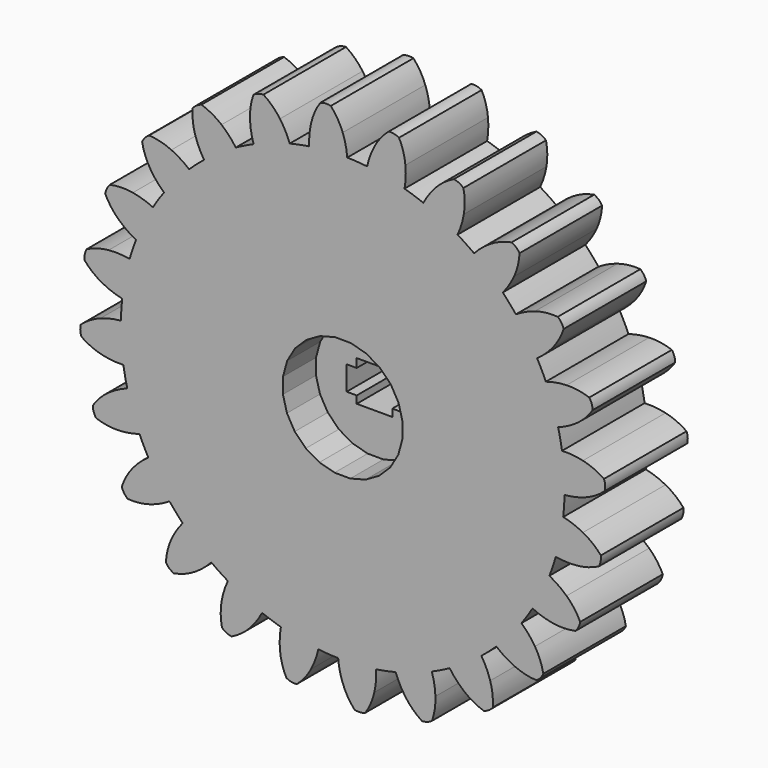
from build123d import *

# Parameters (mm, degrees)
F1_DEPTH = 25
F2_COUNT = 24
F3_DEPTH = 15


with BuildPart() as f1:
    # F0 (on Front) → F1 (new body)
    with BuildSketch(Plane.XZ):
        with BuildLine():
            ThreePointArc((-8.108463, 53.105543), (-35.002508, -40.752549), (53.721, 0))
            ThreePointArc((53.721, 0), (38.376022, 37.592909), (1.107429, 53.709584))
            ThreePointArc((1.107429, 53.709584), (-3.513522, 53.605979), (-8.108463, 53.105543))
        make_face()
        Polygon((-12.459035, -9.478628), (-15.51227, 2.107466), (-9.478628, 12.459035), (2.107466, 15.51227), (12.459035, 9.478628), (15.51227, -2.107466), (9.478628, -12.459035), (-2.107466, -15.51227), align=None, mode=Mode.SUBTRACT)
        with BuildLine():
            ThreePointArc((-8.108463, 53.105543), (-3.513522, 53.605979), (1.107429, 53.709584))
            ThreePointArc((1.107429, 53.709584), (0.722894, 56.229532), (0, 58.674))
            ThreePointArc((0, 58.674), (-1.213214, 61.189629), (-2.874224, 63.434918))
            ThreePointArc((-2.874224, 63.434918), (-4.165081, 63.546858), (-5.430284, 63.267385))
            ThreePointArc((-5.430284, 63.267385), (-6.784015, 60.824499), (-7.658494, 58.172036))
            ThreePointArc((-7.658494, 58.172036), (-8.056136, 55.654124), (-8.108463, 53.105543))
        make_face()
    extrude(amount=F1_DEPTH)



with BuildPart() as f2_1:
    # F2: instance of F1
    add(f1.part.rotate(Axis((0, 0, 0), (0, 1, 0)), 1 * 360 / F2_COUNT))


with BuildPart() as f2_2:
    # F2: instance of F1
    add(f1.part.rotate(Axis((0, 0, 0), (0, 1, 0)), 2 * 360 / F2_COUNT))


with BuildPart() as f2_3:
    # F2: instance of F1
    add(f1.part.rotate(Axis((0, 0, 0), (0, 1, 0)), 3 * 360 / F2_COUNT))


with BuildPart() as f2_4:
    # F2: instance of F1
    add(f1.part.rotate(Axis((0, 0, 0), (0, 1, 0)), 4 * 360 / F2_COUNT))


with BuildPart() as f2_5:
    # F2: instance of F1
    add(f1.part.rotate(Axis((0, 0, 0), (0, 1, 0)), 5 * 360 / F2_COUNT))


with BuildPart() as f2_6:
    # F2: instance of F1
    add(f1.part.rotate(Axis((0, 0, 0), (0, 1, 0)), 6 * 360 / F2_COUNT))


with BuildPart() as f2_7:
    # F2: instance of F1
    add(f1.part.rotate(Axis((0, 0, 0), (0, 1, 0)), 7 * 360 / F2_COUNT))


with BuildPart() as f2_8:
    # F2: instance of F1
    add(f1.part.rotate(Axis((0, 0, 0), (0, 1, 0)), 8 * 360 / F2_COUNT))


with BuildPart() as f2_9:
    # F2: instance of F1
    add(f1.part.rotate(Axis((0, 0, 0), (0, 1, 0)), 9 * 360 / F2_COUNT))


with BuildPart() as f2_10:
    # F2: instance of F1
    add(f1.part.rotate(Axis((0, 0, 0), (0, 1, 0)), 10 * 360 / F2_COUNT))


with BuildPart() as f2_11:
    # F2: instance of F1
    add(f1.part.rotate(Axis((0, 0, 0), (0, 1, 0)), 11 * 360 / F2_COUNT))


with BuildPart() as f2_12:
    # F2: instance of F1
    add(f1.part.rotate(Axis((0, 0, 0), (0, 1, 0)), 12 * 360 / F2_COUNT))


with BuildPart() as f2_13:
    # F2: instance of F1
    add(f1.part.rotate(Axis((0, 0, 0), (0, 1, 0)), 13 * 360 / F2_COUNT))


with BuildPart() as f2_14:
    # F2: instance of F1
    add(f1.part.rotate(Axis((0, 0, 0), (0, 1, 0)), 14 * 360 / F2_COUNT))


with BuildPart() as f2_15:
    # F2: instance of F1
    add(f1.part.rotate(Axis((0, 0, 0), (0, 1, 0)), 15 * 360 / F2_COUNT))


with BuildPart() as f2_16:
    # F2: instance of F1
    add(f1.part.rotate(Axis((0, 0, 0), (0, 1, 0)), 16 * 360 / F2_COUNT))


with BuildPart() as f2_17:
    # F2: instance of F1
    add(f1.part.rotate(Axis((0, 0, 0), (0, 1, 0)), 17 * 360 / F2_COUNT))


with BuildPart() as f2_18:
    # F2: instance of F1
    add(f1.part.rotate(Axis((0, 0, 0), (0, 1, 0)), 18 * 360 / F2_COUNT))


with BuildPart() as f2_19:
    # F2: instance of F1
    add(f1.part.rotate(Axis((0, 0, 0), (0, 1, 0)), 19 * 360 / F2_COUNT))


with BuildPart() as f2_20:
    # F2: instance of F1
    add(f1.part.rotate(Axis((0, 0, 0), (0, 1, 0)), 20 * 360 / F2_COUNT))


with BuildPart() as f2_21:
    # F2: instance of F1
    add(f1.part.rotate(Axis((0, 0, 0), (0, 1, 0)), 21 * 360 / F2_COUNT))


with BuildPart() as f2_22:
    # F2: instance of F1
    add(f1.part.rotate(Axis((0, 0, 0), (0, 1, 0)), 22 * 360 / F2_COUNT))


with BuildPart() as f2_23:
    # F2: instance of F1
    add(f1.part.rotate(Axis((0, 0, 0), (0, 1, 0)), 23 * 360 / F2_COUNT))


with BuildPart() as f1_1:
    add(f1.part)

    add(f2_1.part)  # F3 merges F2_1

    add(f2_2.part)  # F3 merges F2_2

    add(f2_3.part)  # F3 merges F2_3

    add(f2_4.part)  # F3 merges F2_4

    add(f2_5.part)  # F3 merges F2_5

    add(f2_6.part)  # F3 merges F2_6

    add(f2_7.part)  # F3 merges F2_7

    add(f2_8.part)  # F3 merges F2_8

    add(f2_9.part)  # F3 merges F2_9

    add(f2_10.part)  # F3 merges F2_10

    add(f2_11.part)  # F3 merges F2_11

    add(f2_12.part)  # F3 merges F2_12

    add(f2_13.part)  # F3 merges F2_13

    add(f2_14.part)  # F3 merges F2_14

    add(f2_15.part)  # F3 merges F2_15

    add(f2_16.part)  # F3 merges F2_16

    add(f2_17.part)  # F3 merges F2_17

    add(f2_18.part)  # F3 merges F2_18

    add(f2_19.part)  # F3 merges F2_19

    add(f2_20.part)  # F3 merges F2_20

    add(f2_21.part)  # F3 merges F2_21

    add(f2_22.part)  # F3 merges F2_22

    add(f2_23.part)  # F3 merges F2_23
    # F0 (on Front) → F3 (join, symmetric)
    with BuildSketch(Plane.XZ):
        Polygon((-9.478628, 12.459035), (-15.51227, 2.107466), (-12.459035, -9.478628), (-2.107466, -15.51227), (9.478628, -12.459035), (15.51227, -2.107466), (12.459035, 9.478628), (2.107466, 15.51227), align=None)
        Polygon((-4.607326, 2.930828), (-4.607326, 5.043057), (4.00407, 5.043057), (4.00407, 2.930828), (6.928694, 2.930828), (6.928694, -2.918422), (4.00407, -2.918422), (4.00407, -4.705692), (-4.607326, -4.705692), (-4.607326, -2.918422), (-7.044514, -2.918422), (-7.044514, 2.930828), align=None, mode=Mode.SUBTRACT)
    extrude(amount=F3_DEPTH, both=True)


solid = f1_1.part
